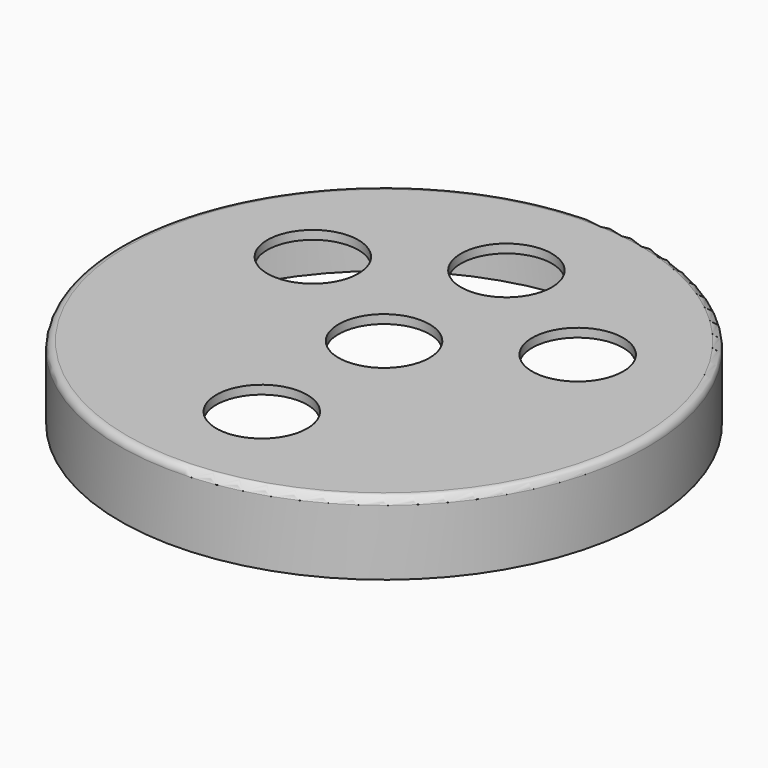
from build123d import *

# Parameters (mm, degrees)
F0_R     = 35.5
F0_R_2   = 6.25
F1_DEPTH = 1.2
F0_R_3   = 36.25
F2_DEPTH = 10
F3_R     = 1


with BuildPart() as f1:
    # F0 (on Top) → F1 (new body)
    with BuildSketch(Plane.XY):
        Circle(F0_R)
        with Locations((0, -21)):
            Circle(F0_R_2, mode=Mode.SUBTRACT)
        with Locations((-18.186533, 10.5)):
            Circle(F0_R_2, mode=Mode.SUBTRACT)
        Circle(F0_R_2, mode=Mode.SUBTRACT)
        with Locations((18.186533, 10.5)):
            Circle(F0_R_2, mode=Mode.SUBTRACT)
        with Locations((0, 21)):
            Circle(F0_R_2, mode=Mode.SUBTRACT)
    extrude(amount=-F1_DEPTH)

    # F0 (on Top) → F2 (join)
    with BuildSketch(Plane.XY):
        Circle(F0_R_3)
        Circle(F0_R, mode=Mode.SUBTRACT)
    extrude(amount=-F2_DEPTH)

    # F3
    f3_edges = [f1.edges().sort_by_distance(p)[0] for p in [
        (-36.25, 0, 0),
        (-35.5, 0, -1.2),
    ]]
    fillet(f3_edges, radius=F3_R)


solid = f1.part
